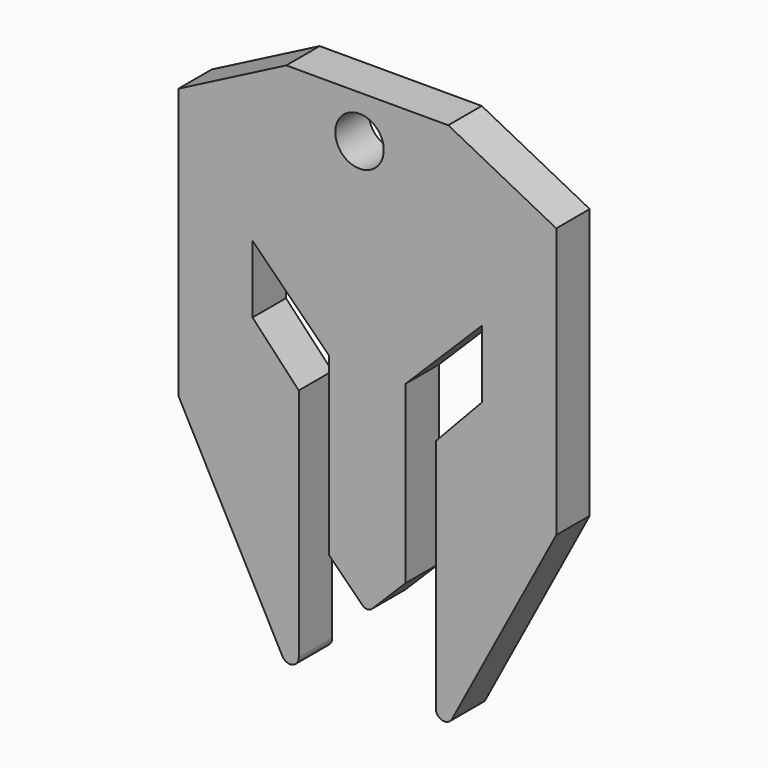
from build123d import *

# Parameters (mm, degrees)
F0_R     = 1.795
F1_DEPTH = 3.1


with BuildPart() as f1:
    # F0 (on Front) → F1 (new body)
    with BuildSketch(Plane.XZ):
        with BuildLine():
            Line((-25.917618, 55.021677), (-33.917618, 50.898571))
            Line((-33.917618, 50.898571), (-33.917618, 30.898571))
            Line((-33.917618, 30.898571), (-26.205678, 16.406338))
            ThreePointArc((-26.205678, 16.406338), (-25.480558, 16.083714), (-24.99199, 16.709162))
            Line((-24.99199, 16.709162), (-24.99199, 34.125582))
            Line((-24.99199, 34.125582), (-28.417245, 37.768057))
            Line((-28.417245, 37.768057), (-28.417245, 42.768057))
            Line((-28.417245, 42.768057), (-22.746045, 37.125585))
            Line((-22.746045, 37.125585), (-22.746045, 24.125582))
            Line((-22.746045, 24.125582), (-20.271171, 21.650708))
            ThreePointArc((-20.271171, 21.650708), (-19.917618, 21.504262), (-19.564064, 21.650708))
            Line((-19.564064, 21.650708), (-17.089191, 24.125582))
            Line((-17.089191, 24.125582), (-17.089191, 37.125585))
            Line((-17.089191, 37.125585), (-11.41799, 42.768057))
            Line((-11.41799, 42.768057), (-11.41799, 37.768057))
            Line((-11.41799, 37.768057), (-14.843246, 34.125582))
            Line((-14.843246, 34.125582), (-14.843246, 16.690635))
            ThreePointArc((-14.843246, 16.690635), (-14.358181, 16.069672), (-13.638261, 16.389983))
            Line((-13.638261, 16.389983), (-5.917618, 30.898571))
            Line((-5.917618, 30.898571), (-5.917618, 50.898571))
            Line((-5.917618, 50.898571), (-13.917618, 55.021677))
            Line((-13.917618, 55.021677), (-25.917618, 55.021677))
        make_face()
        with Locations((-20.491593, 51.844455)):
            Circle(F0_R, mode=Mode.SUBTRACT)
    extrude(amount=F1_DEPTH)


solid = f1.part
